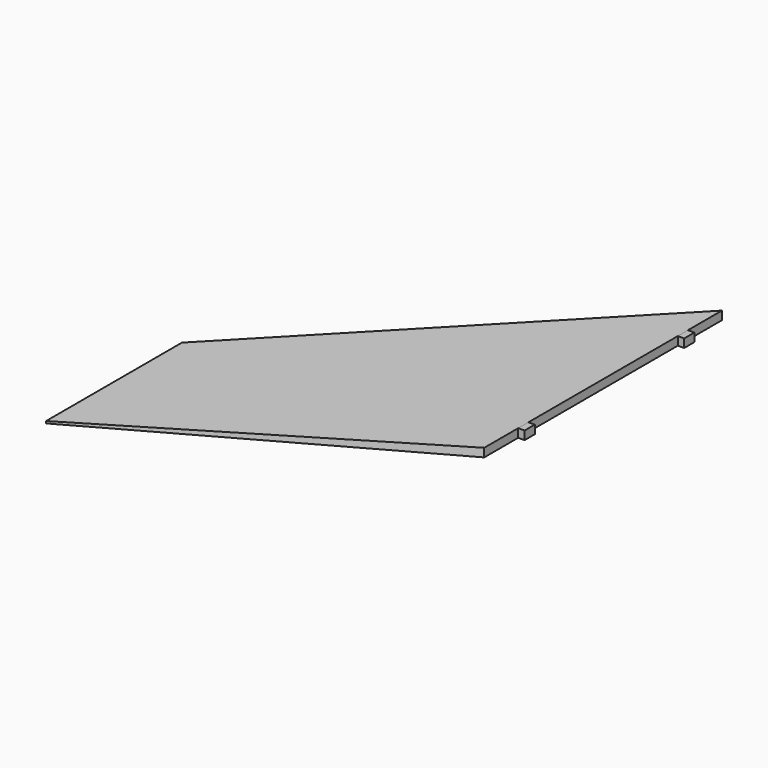
from build123d import *

# Parameters (mm, degrees)
F1_DEPTH = 2
F4_DEPTH = 130.110583
F5_W     = 3
F5_H     = 2
F6_DEPTH = 1.5


with BuildPart() as f1:
    # F0 (on Top) → F1 (new body)
    with BuildSketch(Plane.XY):
        Polygon((-70.511212, -40.909583), (0, 0), (0, 70), (-70.511212, -0.909583), align=None)
    extrude(amount=F1_DEPTH)

    # F3 (on offset) → F4 (cut, through all)
    with BuildSketch(Plane.XZ.offset(-89.2)):
        Polygon((-70.511212, 0), (0, 0), (-70.511212, 0.75), align=None)
        Polygon((-70.511212, 1.25), (0, 2), (-70.511212, 2), align=None)
    extrude(amount=F4_DEPTH, mode=Mode.SUBTRACT)

    # F5 (on face) → F6 (join)
    with BuildSketch(Plane.YZ):
        with Locations((58.5, 1)):
            Rectangle(F5_W, F5_H)
        with Locations((11.5, 1)):
            Rectangle(F5_W, F5_H)
    extrude(amount=F6_DEPTH)


solid = f1.part
